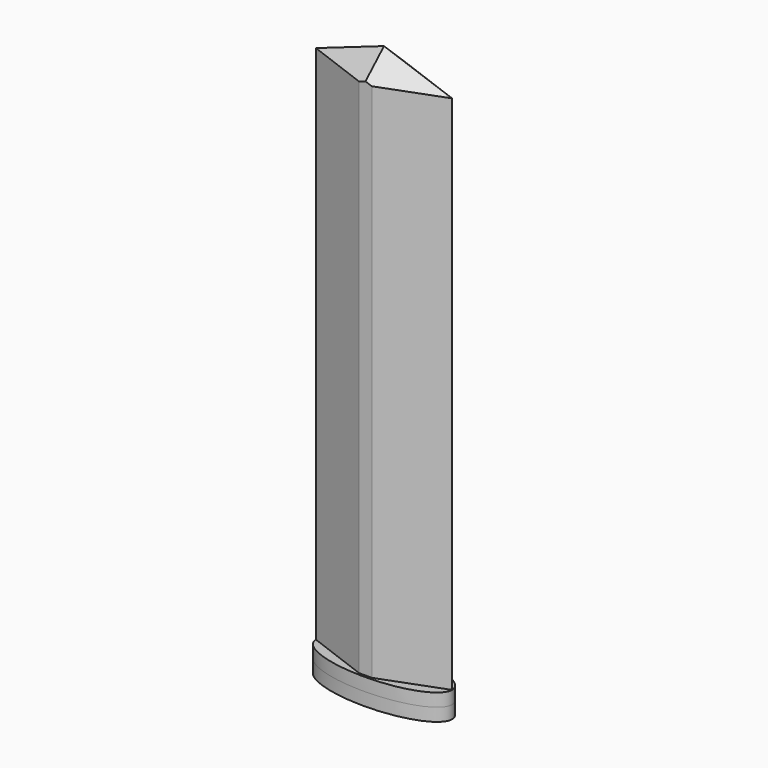
from build123d import *

# Parameters (mm, degrees)
F1_DEPTH = 4.826
F3_DEPTH = 203.2
F4_SIZE  = 8.89
F5_SIZE  = 2.54


with BuildPart() as f1:
    # F0 (on Top) → F1 (new body, symmetric)
    with BuildSketch(Plane.XY):
        with BuildLine():
            add(Edge.make_bspline(
                [(-25.4, 0), (-25.4, -16.4977839421), (12.7, -8.248891971), (50.8, 0), (12.7, 8.248891971), (-25.4, 16.4977839421), (-25.4, 0)],
                knots=[0, 0, 0, 2.0943951024, 2.0943951024, 4.1887902048, 4.1887902048, 6.2831853072, 6.2831853072, 6.2831853072], degree=2, weights=[1, 0.5, 1, 0.5, 1, 0.5, 1]))
        make_face()
    extrude(amount=F1_DEPTH, both=True)

    # F2 (on face) → F3 (join)
    with BuildSketch(Plane.XY.offset(4.826)):
        Polygon((0, 9.525), (-25.4, 0), (0, -9.525), (25.4, 0), align=None)
    extrude(amount=F3_DEPTH)

    # F4
    f4_edges = [f1.edges().sort_by_distance(p)[0] for p in [
        (-12.7, 4.7625, 208.026),
        (-12.7, -4.7625, 208.026),
        (12.7, -4.7625, 208.026),
        (12.7, 4.7625, 208.026),
    ]]
    chamfer(f4_edges, length=F4_SIZE)

    # F5
    f5_edges = [f1.edges().sort_by_distance(p)[0] for p in [
        (0, -9.525, 101.981),
        (0, 9.525, 101.981),
    ]]
    chamfer(f5_edges, length=F5_SIZE)


solid = f1.part
